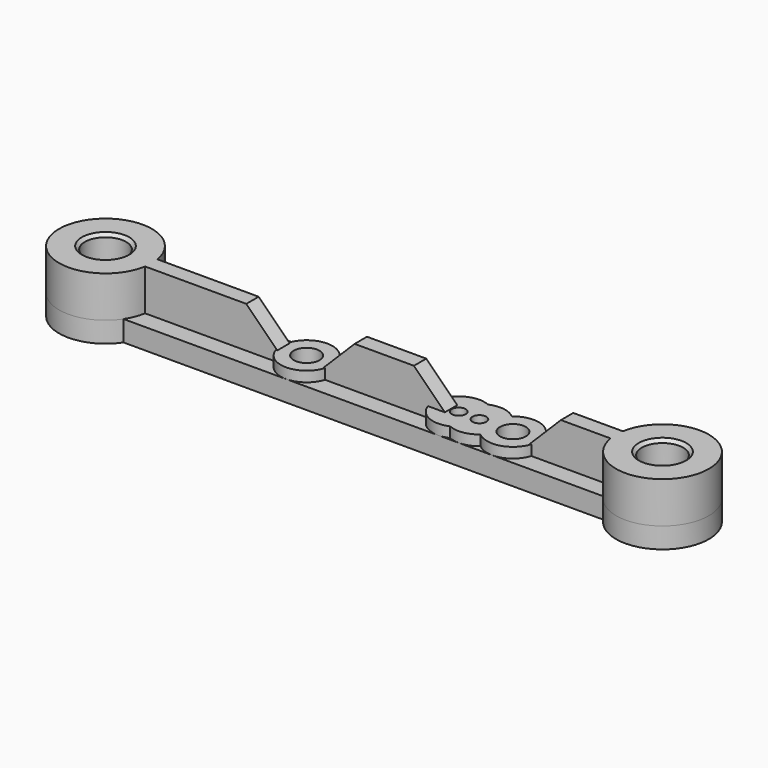
from build123d import *

# Parameters (mm, degrees)
SKETCH_R      = 4
SKETCH_R_2    = 2.5
SKETCH_R_3    = 1.5
PAD_DEPTH     = 4
SKETCH001_R   = 9
SKETCH001_R_2 = 4
PAD001_DEPTH  = 8
SKETCH002_R   = 4
PAD002_DEPTH  = 3
PAD003_DEPTH  = 1.5
SKETCH004_R   = 5
SKETCH004_R_2 = 2.5
PAD004_DEPTH  = 2
CHAMFER_SIZE  = 0.6
SKETCH005_R   = 1.35
PAD005_DEPTH  = 2


with BuildPart() as part:
    # Sketch → Pad (new body)
    with BuildSketch(Plane.XY):
        with BuildLine():
            ThreePointArc((7.483315, 5), (-9, 0), (7.483315, -5))
            Line((7.483315, -5), (100.516685, -5))
            ThreePointArc((100.516685, -5), (117, 0), (100.516685, 5))
            Line((7.483315, 5), (100.516685, 5))
        make_face()
        Circle(SKETCH_R, mode=Mode.SUBTRACT)
        with Locations((108, 0)):
            Circle(SKETCH_R, mode=Mode.SUBTRACT)
        with Locations((39, 0)):
            Circle(SKETCH_R_2, mode=Mode.SUBTRACT)
        with Locations((79, 0)):
            Circle(SKETCH_R_2, mode=Mode.SUBTRACT)
        with Locations((72.5, 0)):
            Circle(SKETCH_R_3, mode=Mode.SUBTRACT)
        with Locations((68.5, 0)):
            Circle(SKETCH_R_3, mode=Mode.SUBTRACT)
    extrude(amount=PAD_DEPTH)

    # Sketch001 (on Face12 of Pad) → Pad001 (join)
    with BuildSketch(Plane.XY.offset(4)):
        Circle(SKETCH001_R)
        Circle(SKETCH001_R_2, mode=Mode.SUBTRACT)
        with Locations((108, 0)):
            Circle(SKETCH001_R)
        with Locations((108, 0)):
            Circle(SKETCH001_R_2, mode=Mode.SUBTRACT)
    extrude(amount=PAD001_DEPTH)

    # Sketch002 (on Face4 of Pad001) → Pad002 (join)
    with BuildSketch(Plane(origin=(0, 0, 0), x_dir=(1, 0, 0), z_dir=(0, 0, -1))):
        with Locations((108, 0)):
            Circle(SKETCH002_R)
        Circle(SKETCH002_R)
    extrude(amount=-PAD002_DEPTH)

    # Sketch003 (on Face3 of Pad002) → Pad003 (join, symmetric)
    with BuildSketch(Plane.XZ):
        Polygon((100, 12), (100, 4), (83.5, 4), (83.5, 6), (89.5, 12), align=None)
        Polygon((8, 4), (8, 12), (28.5, 12), (34.5, 6), (34.5, 4), align=None)
        Polygon((43.5, 4), (67, 4), (67, 6), (61, 12), (49.5, 12), (43.5, 6), align=None)
    extrude(amount=PAD003_DEPTH, both=True)

    # Sketch004 (on Face7 of Pad003) → Pad004 (join)
    with BuildSketch(Plane.XY.offset(4)):
        with Locations((39, 0)):
            Circle(SKETCH004_R)
        with Locations((39, 0)):
            Circle(SKETCH004_R_2, mode=Mode.SUBTRACT)
        with Locations((79, 0)):
            Circle(SKETCH004_R)
        with Locations((79, 0)):
            Circle(SKETCH004_R_2, mode=Mode.SUBTRACT)
    extrude(amount=PAD004_DEPTH)

    # Chamfer
    chamfer_edges = [part.edges().sort_by_distance(p)[0] for p in [
        (-4, 0, 12),
        (104, 0, 12),
    ]]
    chamfer(chamfer_edges, length=CHAMFER_SIZE)

    # Sketch005 (on Face22 of Chamfer) → Pad005 (join)
    with BuildSketch(Plane.XY.offset(4)):
        with BuildLine():
            ThreePointArc((70.5, 4.582576), (63.5, 0), (70.5, -4.582576))
            ThreePointArc((70.5, -4.582576), (73.237469, -4.945315), (75.75, -3.799671))
            ThreePointArc((75.75, 3.799671), (74, 0), (75.75, -3.799671))
            ThreePointArc((75.75, 3.799671), (73.237469, 4.945315), (70.5, 4.582576))
        make_face()
        with Locations((68.5, 0)):
            Circle(SKETCH005_R, mode=Mode.SUBTRACT)
        with Locations((72.5, 0)):
            Circle(SKETCH005_R, mode=Mode.SUBTRACT)
    extrude(amount=PAD005_DEPTH)


solid = part.part
